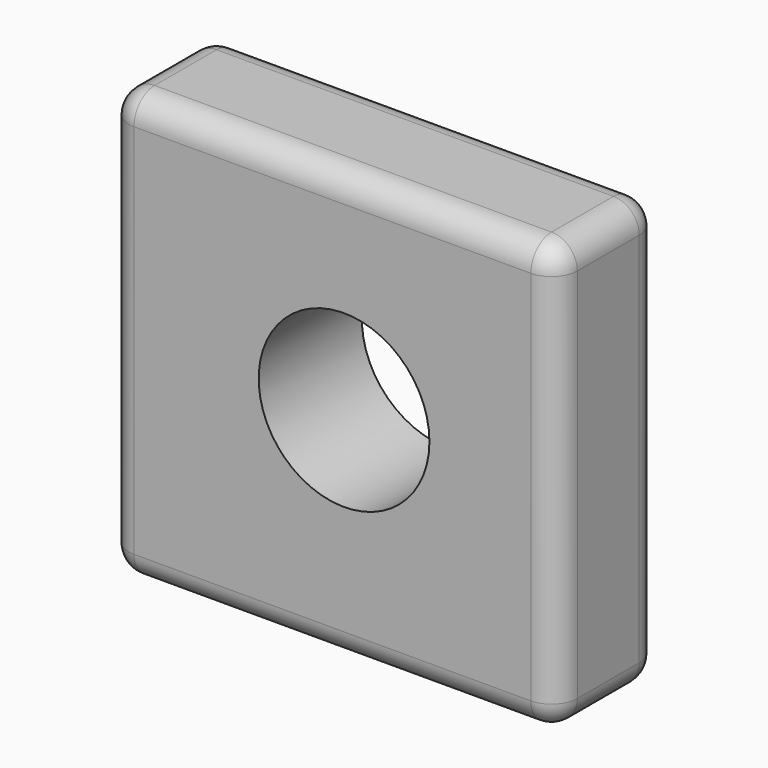
from build123d import *

# Parameters (mm, degrees)
F0_W     = 86.953111
F0_H     = 82.97497
F0_R     = 16.552202
F1_DEPTH = 25
F2_R     = 5


with BuildPart() as f1:
    # F0 (on Front) → F1 (new body)
    with BuildSketch(Plane.XZ):
        with Locations((35.068359, 7.149711)):
            Rectangle(F0_W, F0_H)
        with Locations((37.32422, 8.518703)):
            Circle(F0_R, mode=Mode.SUBTRACT)
    extrude(amount=F1_DEPTH)

    # F2
    f2_edges = [f1.edges().sort_by_distance(p)[0] for p in [
        (78.544915, -12.5, -34.337774),
        (78.544915, -12.5, 48.637196),
        (78.544915, 0, 7.149711),
        (78.544915, -25, 7.149711),
        (-8.408196, -12.5, 48.637196),
        (35.068359, 0, 48.637196),
        (35.068359, -25, 48.637196),
        (-8.408196, -12.5, -34.337774),
        (-8.408196, 0, 7.149711),
        (-8.408196, -25, 7.149711),
        (35.068359, 0, -34.337774),
        (35.068359, -25, -34.337774),
    ]]
    fillet(f2_edges, radius=F2_R)


solid = f1.part
